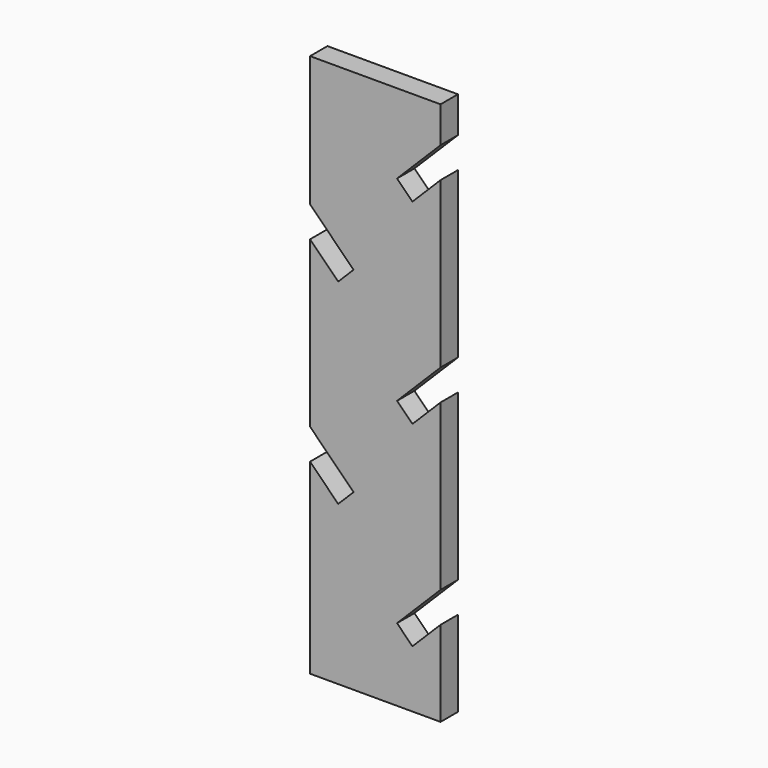
from build123d import *

# Parameters (mm, degrees)
F0_W     = 60
F0_H     = 250
F1_DEPTH = 10
F3_DEPTH = 10


with BuildPart() as f1:
    # F0 (on Front) → F1 (new body)
    with BuildSketch(Plane.XZ):
        Rectangle(F0_W, F0_H)
    extrude(amount=F1_DEPTH)

    # F2 (on face) → F3 (cut)
    with BuildSketch(Plane.XZ.offset(10)):
        Polygon((98.388348, 176.85871), (10, 88.470362), (17.071068, 81.399294), (105.459415, 169.787642), align=None)
        Polygon((17.071068, -8.600706), (105.459415, 79.787642), (98.388348, 86.85871), (10, -1.529638), align=None)
        Polygon((17.071068, -98.600706), (105.459415, -10.212358), (98.388348, -3.14129), (10, -91.529638), align=None)
        Polygon((-17.071068, 37.928932), (-10, 45), (-98.388348, 133.388348), (-105.459415, 126.31728), align=None)
        Polygon((-17.071068, -52.071068), (-10, -45), (-98.388348, 43.388348), (-105.459415, 36.31728), align=None)
    extrude(amount=-F3_DEPTH, mode=Mode.SUBTRACT)


solid = f1.part
